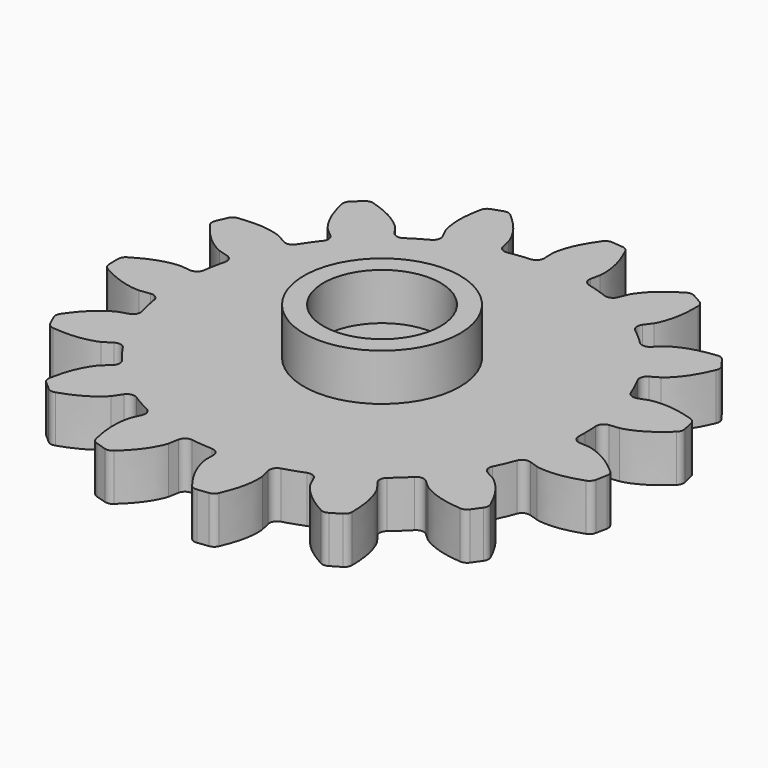
from build123d import *

# Parameters (mm, degrees)
F1_DEPTH = 3
F3_R     = 0.5
F4_R     = 0.5
F5_COUNT = 15
F5_ANGLE = 336
F6_R     = 5
F6_R_2   = 3.75
F7_DEPTH = 3
F6_R_3   = 1.5
F8_DEPTH = 25


with BuildPart() as f1:
    # F0 (on Top) → F1 (new body)
    with BuildSketch(Plane.XY):
        with BuildLine():
            ThreePointArc((3.0756750431, -12.6309232849), (10.2221273608, -8.031694231), (13, 0))
            ThreePointArc((13, 0), (-9.1923881554, 9.1923881554), (0, -13))
            ThreePointArc((0, -13), (1.5488701198, -12.9074010301), (3.0756750431, -12.6309232849))
        make_face()
        with BuildLine():
            ThreePointArc((3.0756750431, -12.6309232849), (1.5488701198, -12.9074010301), (0, -13))
            Line((0, -13), (0, -14.0953893118))
            add(Edge.make_bspline(
                [(0, -14.0953893118), (0.0046104885, -14.1579172119), (0.0172050221, -14.3287255182), (0.1918129535, -14.9846614349), (0.604669095, -15.8893857792), (1.1197122286, -16.5894618475), (1.3867352307, -16.9433457558)],
                knots=[0, 0, 0, 0, 0.1313629856, 0.3588460353, 0.6525208114, 0.9497986309, 0.9497986309, 0.9497986309, 0.9497986309], degree=3))
            Line((1.3867352307, -16.9433457558), (2.6667352534, -16.7895361189))
            add(Edge.make_bspline(
                [(3.3487398835, -13.7523229787), (3.3555580239, -13.796843597), (3.3769701047, -13.9671561657), (3.3636153551, -14.6035256795), (3.1768475714, -15.5803030992), (2.8423192517, -16.3824668818), (2.6667352534, -16.7895361189)],
                knots=[0.0406334908, 0.0406334908, 0.0406334908, 0.0406334908, 0.1313629856, 0.3588460353, 0.6525208114, 0.9497986309, 0.9497986309, 0.9497986309, 0.9497986309], degree=3))
            Line((3.3487398835, -13.7523229787), (3.0756750431, -12.6309232849))
        make_face()
    extrude(amount=F1_DEPTH)

    # F3
    f3_edges = [f1.edges().sort_by_distance(p)[0] for p in [
        (3.075675, -12.630923, 1.5),
        (0, -13, 1.5),
    ]]
    fillet(f3_edges, radius=F3_R)

    # F4
    f4_edges = [f1.edges().sort_by_distance(p)[0] for p in [
        (1.386735, -16.943346, 1.5),
        (2.666735, -16.789536, 1.5),
    ]]
    fillet(f4_edges, radius=F4_R)

    # F5: F1 ×15 about axis
    f5_axis = Axis((0, 0, 27.0593967289), (0, 0, 1))


with BuildPart() as f1_1:
    add(f1.part)
    for i in range(1, F5_COUNT):
        add(f1.part.rotate(f5_axis, i * F5_ANGLE / (F5_COUNT - 1)))

    # F6 (on face) → F7 (join)
    with BuildSketch(Plane.XY.offset(3)):
        Circle(F6_R)
        Circle(F6_R_2, mode=Mode.SUBTRACT)
    extrude(amount=F7_DEPTH)

    # F6 (on face) → F8 (cut)
    with BuildSketch(Plane.XY.offset(3)):
        Circle(F6_R_3)
    extrude(amount=-F8_DEPTH, mode=Mode.SUBTRACT)


solid = f1_1.part
